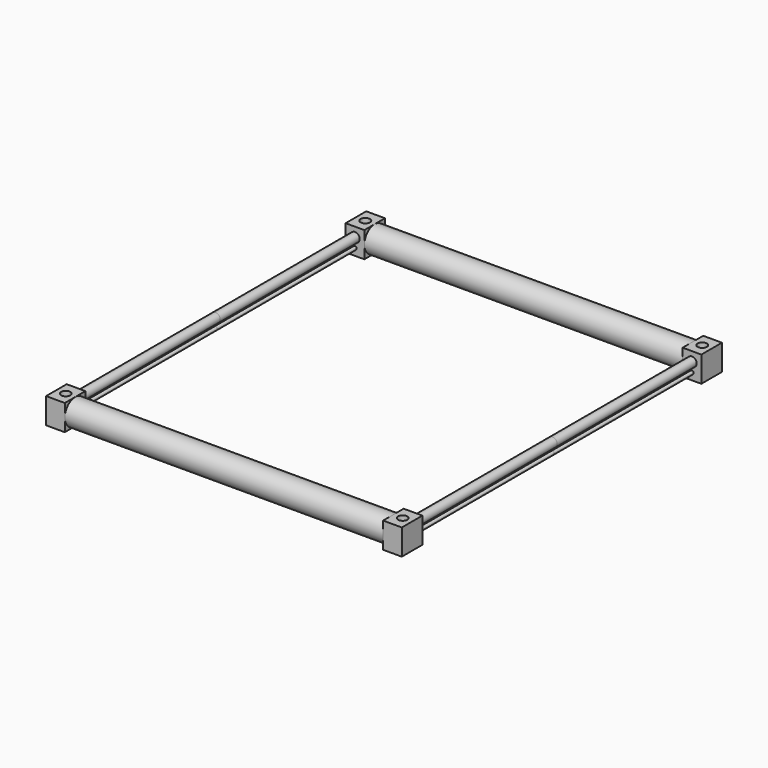
from build123d import *

# Parameters (mm, degrees)
F0_R     = 4.7625
F0_R_2   = 12.7
F1_DEPTH = 34.925
F0_W     = 863.6
F0_H     = 34.925
F3_DEPTH = 508
F6_R     = 12.7
F7_DEPTH = 63.5


with BuildPart() as f1:
    # F0 (on Front) → F1 (new body, symmetric)
    with BuildSketch(Plane.XZ):
        Polygon((482.6, 25.4), (431.8, 25.4), (431.8, -9.525), (431.8, -44.45), (482.6, -44.45), align=None)
        with Locations((457.2, -25.4)):
            Circle(F0_R, mode=Mode.SUBTRACT)
        with Locations((457.2, 0)):
            Circle(F0_R_2, mode=Mode.SUBTRACT)
        with Locations((457.2, 0)):
            Circle(F0_R_2)
        with Locations((457.2, -25.4)):
            Circle(F0_R)
    extrude(amount=F1_DEPTH, both=True)



with BuildPart() as f1b:
    # F0 (on Front) → F1, piece 2 (new body, symmetric)
    with BuildSketch(Plane.XZ):
        Polygon((-431.8, -9.525), (-431.8, 25.4), (-482.6, 25.4), (-482.6, -44.45), (-431.8, -44.45), align=None)
        with Locations((-457.2, -25.4)):
            Circle(F0_R, mode=Mode.SUBTRACT)
        with Locations((-457.2, 0)):
            Circle(F0_R_2, mode=Mode.SUBTRACT)
        with Locations((-457.2, 0)):
            Circle(F0_R_2)
        with Locations((-457.2, -25.4)):
            Circle(F0_R)
    extrude(amount=F1_DEPTH, both=True)


with BuildPart() as f1_1:
    add(f1.part)

    add(f1b.part)  # F2 merges F1b
    # F0 (on Front) → F2 (revolve)
    with BuildSketch(Plane.XZ):
        with Locations((0, 7.9375)):
            Rectangle(F0_W, F0_H)
    revolve(axis=Axis((0, 0, -9.525), (1, 0, 0)))

    # F0 (on Front) → F3 (join)
    with BuildSketch(Plane.XZ):
        with Locations((457.2, 0)):
            Circle(F0_R_2)
        with Locations((457.2, -25.4)):
            Circle(F0_R)
        with Locations((-457.2, 0)):
            Circle(F0_R_2)
        with Locations((-457.2, -25.4)):
            Circle(F0_R)
    extrude(amount=-F3_DEPTH)

    # F5: F1 across plane


with BuildPart() as f1_2:
    add(f1_1.part)
    add(f1_1.part.mirror(Plane.XZ.offset(-508)))

    # F6 (on Top) → F7 (cut, symmetric)
    with BuildSketch(Plane.XY):
        with Locations((-457.2, 0)):
            Circle(F6_R)
        with Locations((-457.2, 1016)):
            Circle(F6_R)
        with Locations((457.2, 0)):
            Circle(F6_R)
        with Locations((457.2, 1016)):
            Circle(F6_R)
    extrude(amount=F7_DEPTH, both=True, mode=Mode.SUBTRACT)


solid = f1_2.part
